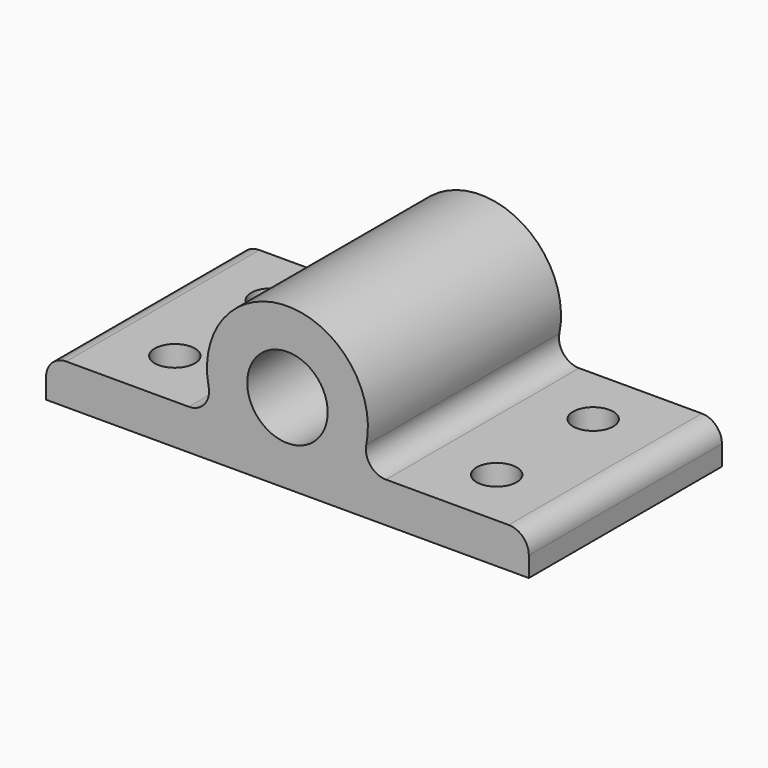
from build123d import *

# Parameters (mm, degrees)
F0_R     = 1
F1_DEPTH = 6
F2_R     = 0.5
F3_DEPTH = 4.001
F4_R     = 0.5


with BuildPart() as f1:
    # F0 (on Front) → F1 (new body)
    with BuildSketch(Plane.XZ):
        with BuildLine():
            Line((-2.44949, 0.5), (-6, 0.5))
            Line((-6, 0.5), (-6, -0.5))
            Line((-6, -0.5), (6, -0.5))
            Line((6, -0.5), (6, 0.5))
            Line((6, 0.5), (2.44949, 0.5))
            ThreePointArc((2.44949, 0.5), (2.062191, 0.683772), (1.959592, 1.1))
            ThreePointArc((1.959592, 1.1), (0, 3.5), (-1.959592, 1.1))
            ThreePointArc((-1.959592, 1.1), (-2.062191, 0.683772), (-2.44949, 0.5))
        make_face()
        with Locations((0, 1.5)):
            Circle(F0_R, mode=Mode.SUBTRACT)
    extrude(amount=F1_DEPTH)

    # F2 (on face) → F3 (cut, through all)
    with BuildSketch(Plane(origin=(0, 0, -0.5), x_dir=(1, 0, 0), z_dir=(0, 0, -1))):
        with BuildLine():
            Line((-4.5, 4.5), (-3.5, 4.5))
            ThreePointArc((-3.5, 4.5), (-4, 5), (-4.5, 4.5))
        make_face()
        with BuildLine():
            ThreePointArc((-4.5, 4.5), (-4, 4), (-3.5, 4.5))
            Line((-3.5, 4.5), (-4.5, 4.5))
        make_face()
        with BuildLine():
            ThreePointArc((4.5, 4.5), (4, 5), (3.5, 4.5))
            Line((3.5, 4.5), (4.5, 4.5))
        make_face()
        with BuildLine():
            Line((4.5, 4.5), (3.5, 4.5))
            ThreePointArc((3.5, 4.5), (4, 4), (4.5, 4.5))
        make_face()
        with Locations((4, 1.5)):
            Circle(F2_R)
        with Locations((-4, 1.5)):
            Circle(F2_R)
    extrude(amount=-F3_DEPTH, mode=Mode.SUBTRACT)

    # F4
    f4_edges = [f1.edges().sort_by_distance(p)[0] for p in [
        (-6, -3, 0.5),
        (6, -3, 0.5),
    ]]
    fillet(f4_edges, radius=F4_R)


solid = f1.part
